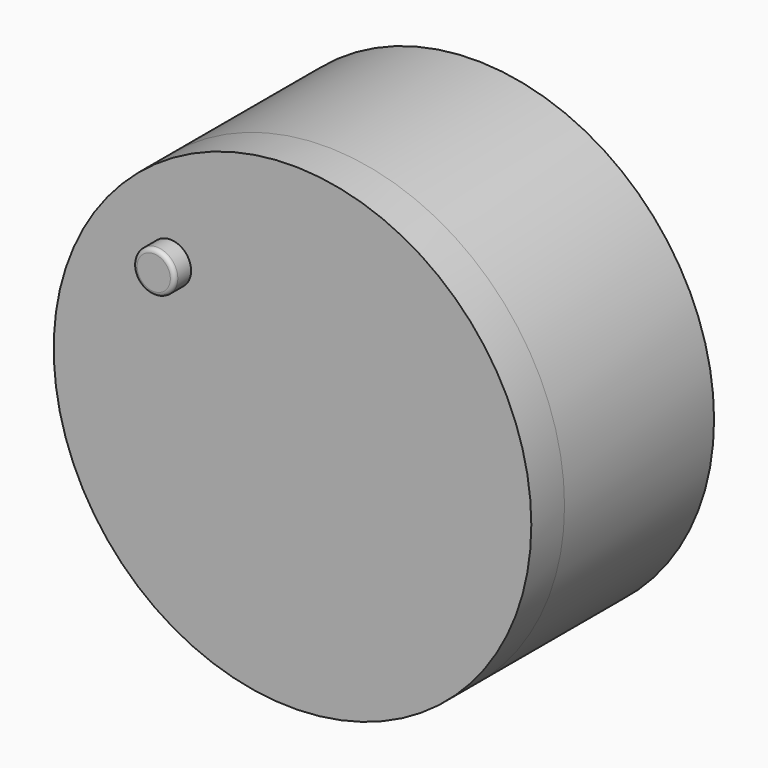
from build123d import *

# Parameters (mm, degrees)
F0_R     = 73.025
F1_DEPTH = 57.15
F2_DEPTH = 12.7
F3_R     = 15.24
F5_R     = 73.025
F6_DEPTH = 12.7
F7_R     = 6.35
F8_DEPTH = 6.35
F9_R     = 1.27


with BuildPart() as f1:
    # F0 (on Front) → F1 (new body)
    with BuildSketch(Plane.XZ):
        Circle(F0_R)
        with BuildLine():
            ThreePointArc((4.7625, 63.3211543937), (46.5546385981, 43.1846688652), (63.5, 0))
            ThreePointArc((63.5, 0), (46.5546385981, -43.1846688652), (4.7625, -63.3211543937))
            ThreePointArc((4.7625, -63.3211543937), (0, -63.5), (-4.7625, -63.3211543937))
            ThreePointArc((-4.7625, -63.3211543937), (-63.5, 0), (-4.7625, 63.3211543937))
            ThreePointArc((-4.7625, 63.3211543937), (0, 63.5), (4.7625, 63.3211543937))
        make_face(mode=Mode.SUBTRACT)
        with BuildLine():
            Line((4.7625, 0), (4.7625, 63.3211543937))
            ThreePointArc((4.7625, 63.3211543937), (0, 63.5), (-4.7625, 63.3211543937))
            Line((-4.7625, 63.3211543937), (-4.7625, 0))
            Line((-4.7625, 0), (0, 0))
            Line((0, 0), (4.7625, 0))
        make_face()
        with BuildLine():
            ThreePointArc((-4.7625, -63.3211543937), (0, -63.5), (4.7625, -63.3211543937))
            Line((4.7625, -63.3211543937), (4.7625, 0))
            Line((4.7625, 0), (0, 0))
            Line((0, 0), (-4.7625, 0))
            Line((-4.7625, 0), (-4.7625, -63.3211543937))
        make_face()
    extrude(amount=F1_DEPTH)

    # F3
    f3_edges = [f1.edges().sort_by_distance(p)[0] for p in [
        (-4.7625, -28.575, 63.321154),
        (4.7625, -28.575, 63.321154),
        (4.7625, -28.575, -63.321154),
        (-4.7625, -28.575, -63.321154),
    ]]
    fillet(f3_edges, radius=F3_R)


with BuildPart() as f2:
    # F0 (on Front) → F2 (new body)
    with BuildSketch(Plane.XZ):
        with BuildLine():
            Line((-4.7625, 0), (-4.7625, 63.3211543937))
            ThreePointArc((-4.7625, 63.3211543937), (-63.5, 0), (-4.7625, -63.3211543937))
            Line((-4.7625, -63.3211543937), (-4.7625, 0))
        make_face()
    extrude(amount=F2_DEPTH)


with BuildPart() as f2b:
    # F0 (on Front) → F2, piece 2 (new body)
    with BuildSketch(Plane.XZ):
        with BuildLine():
            ThreePointArc((4.7625, -63.3211543937), (46.5546385981, -43.1846688652), (63.5, 0))
            ThreePointArc((63.5, 0), (46.5546385981, 43.1846688652), (4.7625, 63.3211543937))
            Line((4.7625, 63.3211543937), (4.7625, 0))
            Line((4.7625, 0), (4.7625, -63.3211543937))
        make_face()
    extrude(amount=F2_DEPTH)


with BuildPart() as f6:
    # F5 (on offset) → F6 (new body)
    with BuildSketch(Plane.XZ.offset(57.15)):
        Circle(F5_R)
    extrude(amount=F6_DEPTH)

    # F7 (on face) → F8 (join)
    with BuildSketch(Plane.XZ.offset(69.85)):
        with Locations((-37.3514518142, 34.6009396017)):
            Circle(F7_R)
    extrude(amount=F8_DEPTH)

    # F9
    f9_edges = [f6.edges().sort_by_distance(p)[0] for p in [
        (-43.701452, -76.2, 34.60094),
    ]]
    fillet(f9_edges, radius=F9_R)


solid = Compound([f1.part, f2.part, f2b.part, f6.part])
